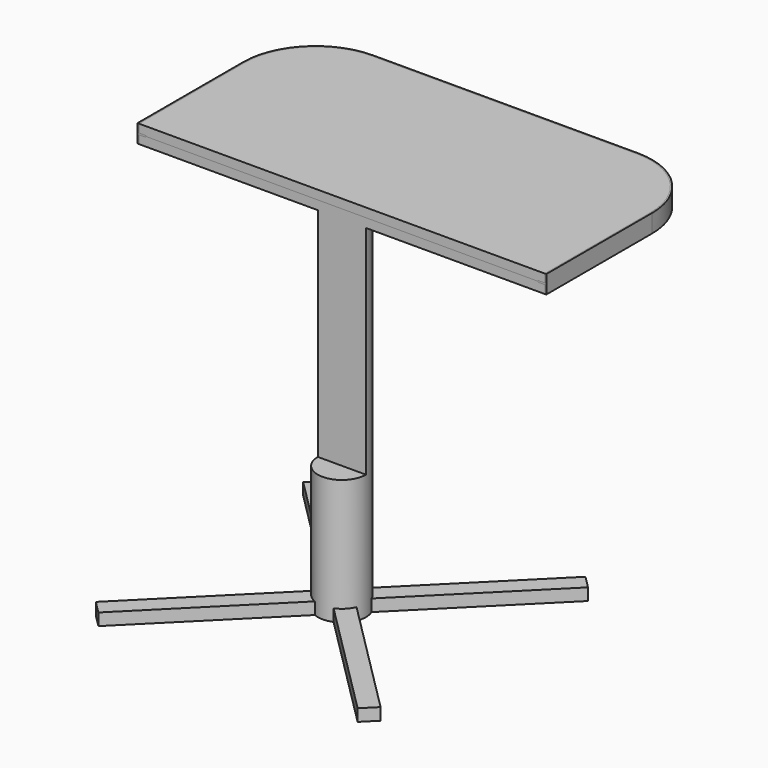
from build123d import *

# Parameters (mm, degrees)
F1_DEPTH  = 19.05
F3_DEPTH  = 19.05
F4_W      = 14.2259423733
F4_H      = 3.175
F6_R      = 50.8
F7_DEPTH  = 723.9
F9_DEPTH  = 25.4
F10_W     = 1267.3492431641
F10_H     = 993.9301609993
F11_DEPTH = 914.4


with BuildPart() as f1:
    # F0 (on Top) → F1 (new body)
    with BuildSketch(Plane.XY):
        with BuildLine():
            Line((279.4, 431.8), (-279.4, 431.8))
            ThreePointArc((-279.4, 431.8), (-387.1630734528, 387.1630734528), (-431.8, 279.4))
            Line((-431.8, 279.4), (-431.8, -279.4))
            ThreePointArc((-431.8, -279.4), (-387.1630734528, -387.1630734528), (-279.4, -431.8))
            Line((-279.4, -431.8), (279.4, -431.8))
            ThreePointArc((279.4, -431.8), (387.1630734528, -387.1630734528), (431.8, -279.4))
            Line((431.8, -279.4), (431.8, 279.4))
            ThreePointArc((431.8, 279.4), (387.1630734528, 387.1630734528), (279.4, 431.8))
        make_face()
    extrude(amount=-F1_DEPTH)


with BuildPart() as f3:
    # F2 (on face) → F3 (new body)
    with BuildSketch(Plane(origin=(0, 0, -19.05), x_dir=(1, 0, 0), z_dir=(0, 0, -1))):
        with BuildLine():
            ThreePointArc((-279.4, 431.8), (-387.1630734528, 387.1630734528), (-431.8, 279.4))
            Line((-431.8, 279.4), (-431.8, -279.4))
            ThreePointArc((-431.8, -279.4), (-387.1630734528, -387.1630734528), (-279.4, -431.8))
            Line((-279.4, -431.8), (279.4, -431.8))
            ThreePointArc((279.4, -431.8), (387.1630734528, -387.1630734528), (431.8, -279.4))
            Line((431.8, -279.4), (431.8, 279.4))
            ThreePointArc((431.8, 279.4), (387.1630734528, 387.1630734528), (279.4, 431.8))
            Line((279.4, 431.8), (-279.4, 431.8))
        make_face()
    extrude(amount=F3_DEPTH)

    # F6 (on face) → F7 (join)
    with BuildSketch(Plane(origin=(0, 0, -38.1), x_dir=(1, 0, 0), z_dir=(0, 0, -1))):
        Circle(F6_R)
    extrude(amount=F7_DEPTH)

    # F8 (on face) → F9 (join)
    with BuildSketch(Plane(origin=(0, 0, -762), x_dir=(1, 0, 0), z_dir=(0, 0, -1))):
        Polygon((0, 0), (13.4703841816, 13.4703841816), (0, 26.9407683632), (-13.4703841816, 13.4703841816), align=None)
        Polygon((26.9407683632, 0), (13.4703841816, 13.4703841816), (0, 0), (13.4703841816, -13.4703841816), align=None)
        Polygon((0, 26.9407683632), (13.4703841816, 13.4703841816), (26.9407683632, 0), (300.8385800558, 273.8978116926), (273.8978116926, 300.8385800558), align=None)
        Polygon((-13.4703841816, 13.4703841816), (0, 26.9407683632), (-273.8978116926, 300.8385800558), (-300.8385800558, 273.8978116926), (-26.9407683632, 0), align=None)
        Polygon((13.4703841816, -13.4703841816), (0, 0), (-13.4703841816, -13.4703841816), (0, -26.9407683632), align=None)
        Polygon((-13.4703841816, -13.4703841816), (0, 0), (-13.4703841816, 13.4703841816), (-26.9407683632, 0), align=None)
        Polygon((300.8385800558, -273.8978116926), (26.9407683632, 0), (13.4703841816, -13.4703841816), (0, -26.9407683632), (273.8978116926, -300.8385800558), align=None)
        Polygon((0, -26.9407683632), (-13.4703841816, -13.4703841816), (-26.9407683632, 0), (-300.8385800558, -273.8978116926), (-273.8978116926, -300.8385800558), align=None)
    extrude(amount=-F9_DEPTH)


with BuildPart() as f5:
    # F5: sweep along a path in F5_path
    with BuildLine(Plane(origin=(279.4, -431.8, -19.05), x_dir=(0, -1, 0), z_dir=(0, 0, -1))) as f5_path:
        Line((0, 0), (0, 558.8))
        ThreePointArc((0, 558.8), (-44.6369265472, 666.5630734528), (-152.4, 711.2))
        Line((-152.4, 711.2), (-711.2, 711.2))
        ThreePointArc((-711.2, 711.2), (-818.9630734528, 666.5630734528), (-863.6, 558.8))
        Line((-863.6, 558.8), (-863.6, 0))
        ThreePointArc((-863.6, 0), (-818.9630734528, -107.7630734528), (-711.2, -152.4))
        Line((-711.2, -152.4), (-152.4, -152.4))
        ThreePointArc((-152.4, -152.4), (-44.6369265472, -107.7630734528), (0, 0))
    # F4 (on Front) → F5 (sweep)
    with BuildSketch(Plane.XZ):
        Polygon((-428.625, -17.4625), (-428.625, 0), (-431.8, 0), (-431.8, -19.05), (-431.8, -38.1), (-428.625, -38.1), (-428.625, -20.6375), align=None)
        with Locations((-421.5120288134, -19.05)):
            Rectangle(F4_W, F4_H)
    sweep(path=f5_path.line)


with BuildPart() as f11_tool:
    # F10 (on Front) → F11 (new body)
    with BuildSketch(Plane.XZ):
        Rectangle(F10_W, F10_H)
    extrude(amount=F11_DEPTH)


with BuildPart() as f1_1:
    add(f1.part)

    # F11: cut by f11_tool
    add(f11_tool.part, mode=Mode.SUBTRACT)


with BuildPart() as f3_1:
    add(f3.part)

    # F11: cut by f11_tool
    add(f11_tool.part, mode=Mode.SUBTRACT)


with BuildPart() as f5_1:
    add(f5.part)

    # F11: cut by f11_tool
    add(f11_tool.part, mode=Mode.SUBTRACT)


solid = Compound([f1_1.part, f3_1.part, f5_1.part])
